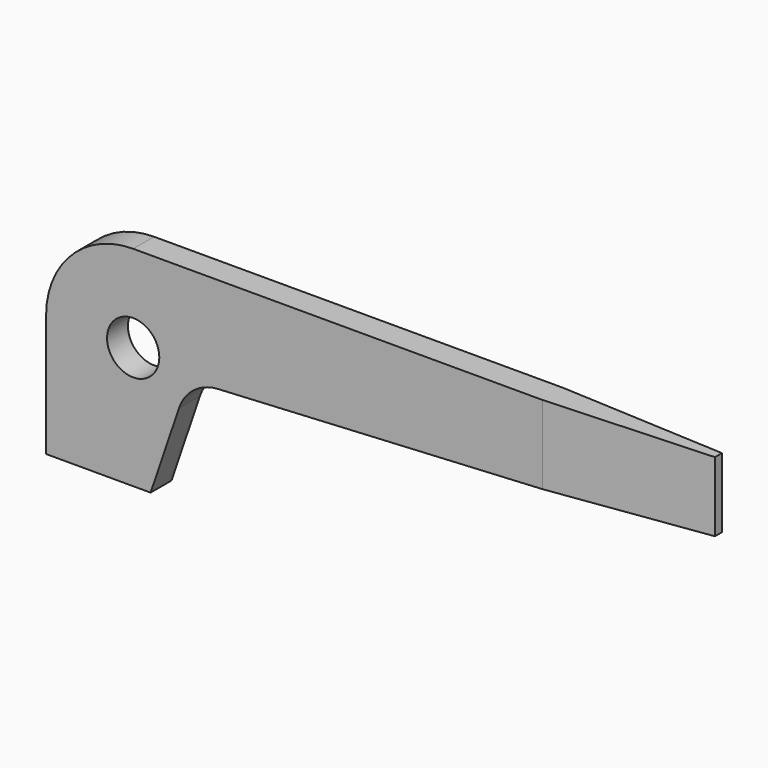
from build123d import *

# Parameters (mm, degrees)
F1_DEPTH = 2.38125
F2_R     = 2.38125
F3_DEPTH = 25.4
F5_DEPTH = 25.4


with BuildPart() as f1:
    # F0 (on Front) → F1 (new body)
    with BuildSketch(Plane.XZ):
        with BuildLine():
            Line((60.325, 19.05), (7.9375, 19.05))
            ThreePointArc((7.9375, 19.05), (2.32484, 16.72516), (0, 11.1125))
            Line((0, 11.1125), (0, 0))
            Line((0, 0), (9.525, 0))
            Line((9.525, 0), (12.117365, 7.627166))
            ThreePointArc((12.117365, 7.627166), (13.478615, 9.513592), (15.663196, 10.313094))
            Line((15.663196, 10.313094), (60.325, 12.7))
            Line((60.325, 12.7), (60.325, 19.05))
        make_face()
    extrude(amount=F1_DEPTH)

    # F2 (on face) → F3 (cut)
    with BuildSketch(Plane.XZ.offset(2.38125)):
        with Locations((7.9375, 11.1125)):
            Circle(F2_R)
    extrude(amount=-F3_DEPTH, mode=Mode.SUBTRACT)

    # F4 (on face) → F5 (cut)
    with BuildSketch(Plane.XY.offset(19.05)):
        Polygon((60.325, -2.38125), (60.325, -1.59385), (45.2374, -2.38125), align=None)
        Polygon((60.325, 0), (45.24375, 0), (60.325, -0.79375), align=None)
    extrude(amount=-F5_DEPTH, mode=Mode.SUBTRACT)


solid = f1.part
